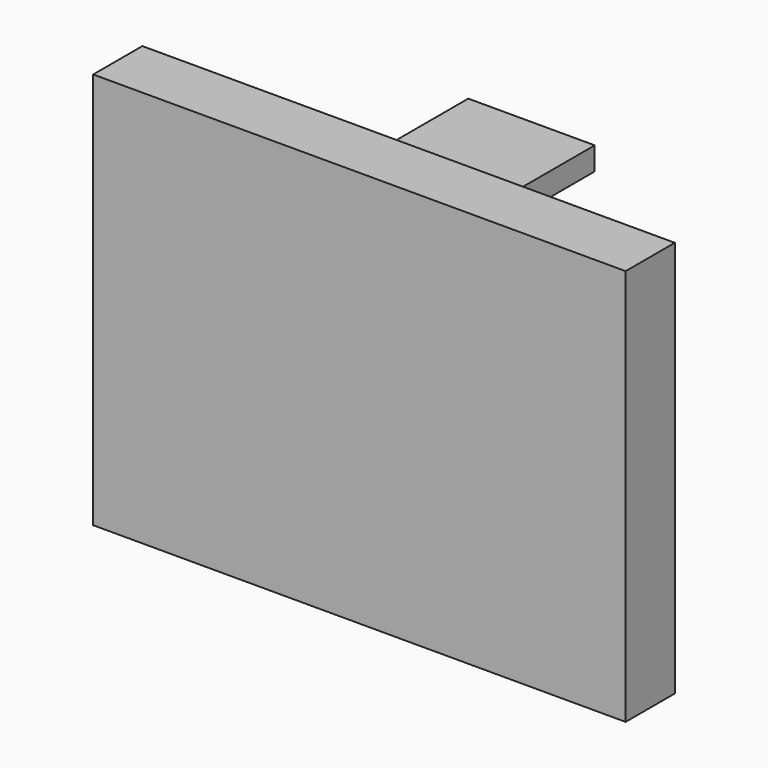
from build123d import *

# Parameters (mm, degrees)
F0_W     = 86.649
F0_H     = 64.58047
F1_DEPTH = 10
F2_W     = 27.147728
F2_H     = 7.65556
F3_DEPTH = 5
F4_W     = 44.741262
F4_H     = 26.414666
F5_DEPTH = 20
F6_W     = 20.580796
F6_H     = 3.749348
F7_DEPTH = 25


with BuildPart() as f1:
    # F0 (on Front) → F1 (new body)
    with BuildSketch(Plane.XZ):
        Rectangle(F0_W, F0_H)
    extrude(amount=F1_DEPTH)

    # F2 (on face) → F3 (cut)
    with BuildSketch(Plane(origin=(0, 0, 0), x_dir=(-1, 0, 0), z_dir=(0, 1, 0))):
        with Locations((0, 22.633316)):
            Rectangle(F2_W, F2_H)
    extrude(amount=-F3_DEPTH, mode=Mode.SUBTRACT)

    # F4 (on face) → F5 (join)
    with BuildSketch(Plane(origin=(0, 0, 0), x_dir=(-1, 0, 0), z_dir=(0, 1, 0))):
        Rectangle(F4_W, F4_H)
    extrude(amount=F5_DEPTH)


with BuildPart() as f7:
    # F6 (on face) → F7 (new body)
    with BuildSketch(Plane(origin=(0, 0, 0), x_dir=(-1, 0, 0), z_dir=(0, 1, 0))):
        with Locations((0, 23.472328)):
            Rectangle(F6_W, F6_H)
    extrude(amount=F7_DEPTH)


solid = Compound([f1.part, f7.part])
